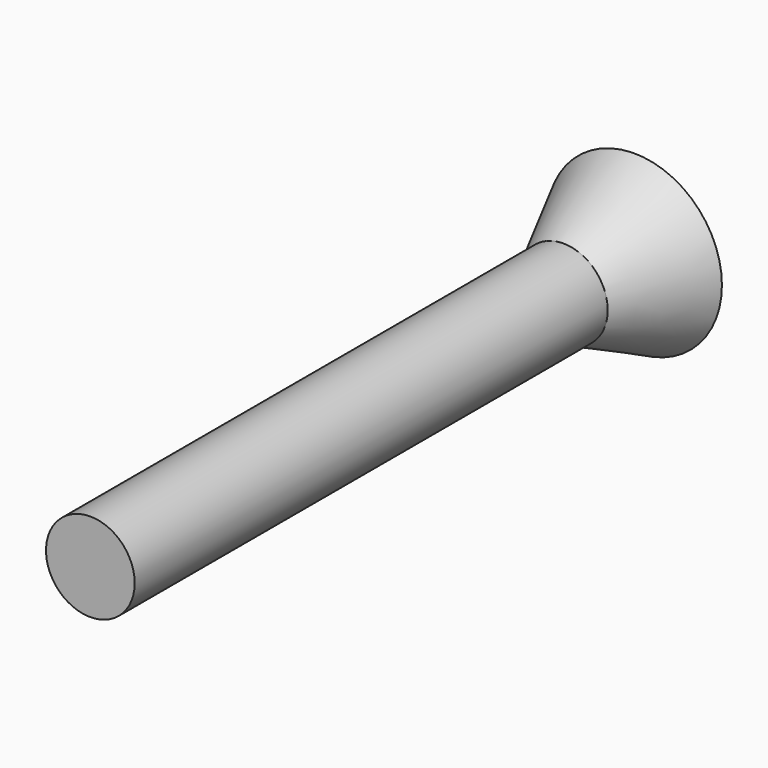
from build123d import *

# Parameters (mm, degrees)
F0_R      = 7.5
F1_DEPTH  = 100
F1_FACE_R = 7.5
F2_DEPTH  = 15
F2_TAPER  = -26


with BuildPart() as f1:
    # F0 (on Front) → F1 (new body)
    with BuildSketch(Plane.XZ):
        Circle(F0_R)
    extrude(amount=F1_DEPTH)

    # F1_face (on face) → F2 (join)
    with BuildSketch(Plane(origin=(0, 0, 0), x_dir=(1, 0, 0), z_dir=(0, 1, 0))):
        Circle(F1_FACE_R)
    extrude(amount=F2_DEPTH, taper=F2_TAPER)


solid = f1.part
